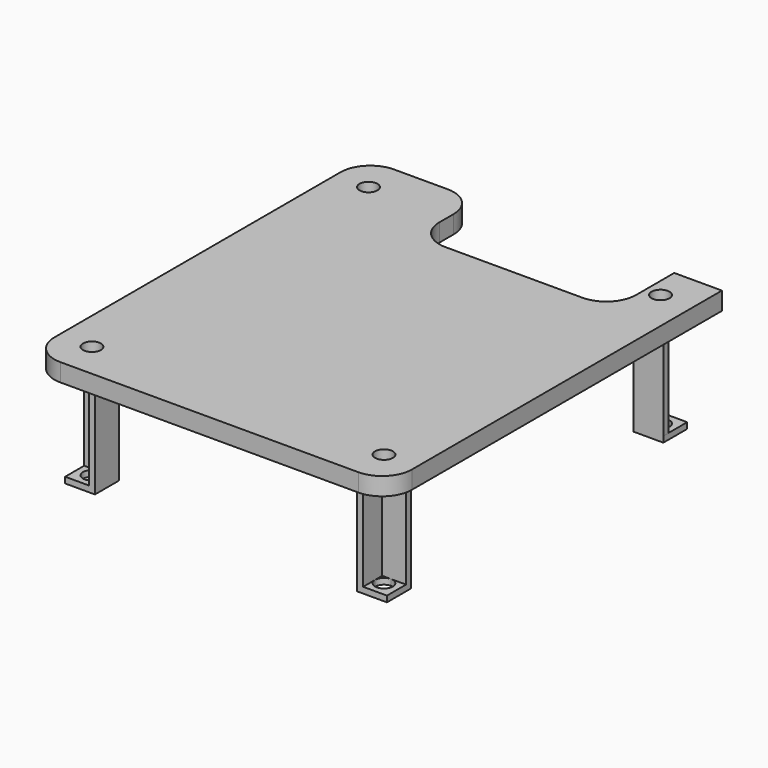
from build123d import *

# Parameters (mm, degrees)
F0_R     = 1.5
F1_DEPTH = 3
F3_DEPTH = 16
F4_R     = 5
F5_W     = 5
F5_H     = 5
F6_DEPTH = 1


with BuildPart() as f1:
    # F0 (on Top) → F1 (new body)
    with BuildSketch(Plane.XY):
        Polygon((30, -35), (30, 35), (22, 35), (22, 22), (-11, 22), (-11, 35), (-30, 35), (-30, -35), align=None)
        with Locations((-24.5, -29)):
            Circle(F0_R, mode=Mode.SUBTRACT)
        with Locations((24.5, -29)):
            Circle(F0_R, mode=Mode.SUBTRACT)
        with Locations((-24.5, 29)):
            Circle(F0_R, mode=Mode.SUBTRACT)
        with Locations((24.5, 29)):
            Circle(F0_R, mode=Mode.SUBTRACT)
    extrude(amount=-F1_DEPTH)

    # F2 (on face) → F3 (join)
    with BuildSketch(Plane(origin=(0, 0, -3), x_dir=(1, 0, 0), z_dir=(0, 0, -1))):
        Polygon((27, -26.5), (22, -26.5), (22, -31.5), (23, -31.5), (23, -29), (23, -27.5), (24.5, -27.5), (27, -27.5), align=None)
        Polygon((-22, -31.5), (-22, -26.5), (-27, -26.5), (-27, -27.5), (-24.5, -27.5), (-23, -27.5), (-23, -29), (-23, -31.5), align=None)
        Polygon((-27, 26.5), (-22, 26.5), (-22, 31.5), (-23, 31.5), (-23, 29), (-23, 27.5), (-24.5, 27.5), (-27, 27.5), align=None)
        Polygon((22, 31.5), (22, 26.5), (27, 26.5), (27, 27.5), (24.5, 27.5), (23, 27.5), (23, 29), (23, 31.5), align=None)
    extrude(amount=F3_DEPTH)

    # F4
    f4_edges = [f1.edges().sort_by_distance(p)[0] for p in [
        (-30, 35, -1.5),
        (-30, -35, -1.5),
        (-11, 35, -1.5),
        (-11, 22, -1.5),
        (22, 22, -1.5),
        (30, -35, -1.5),
    ]]
    fillet(f4_edges, radius=F4_R)

    # F5 (on face) → F6 (join)
    with BuildSketch(Plane(origin=(0, 0, -19), x_dir=(1, 0, 0), z_dir=(0, 0, -1))):
        with Locations((-24.5, 29)):
            Rectangle(F5_W, F5_H)
        with BuildLine():
            ThreePointArc((-24.5, 27.5), (-25.56066, 30.06066), (-23, 29))
            ThreePointArc((-23, 29), (-23.43934, 27.93934), (-24.5, 27.5))
        make_face(mode=Mode.SUBTRACT)
        with Locations((24.5, 29)):
            Rectangle(F5_W, F5_H)
        with BuildLine():
            ThreePointArc((24.5, 27.5), (23.43934, 27.93934), (23, 29))
            ThreePointArc((23, 29), (25.56066, 30.06066), (24.5, 27.5))
        make_face(mode=Mode.SUBTRACT)
        with Locations((24.474937, -29)):
            Rectangle(F5_W, F5_H)
        with BuildLine():
            ThreePointArc((24.5, -27.5), (25.56066, -30.06066), (23, -29))
            ThreePointArc((23, -29), (23.43934, -27.93934), (24.5, -27.5))
        make_face(mode=Mode.SUBTRACT)
        with Locations((-24.5, -29)):
            Rectangle(F5_W, F5_H)
        with BuildLine():
            ThreePointArc((-24.5, -27.5), (-23.43934, -27.93934), (-23, -29))
            ThreePointArc((-23, -29), (-25.56066, -30.06066), (-24.5, -27.5))
        make_face(mode=Mode.SUBTRACT)
    extrude(amount=F6_DEPTH)


solid = f1.part
